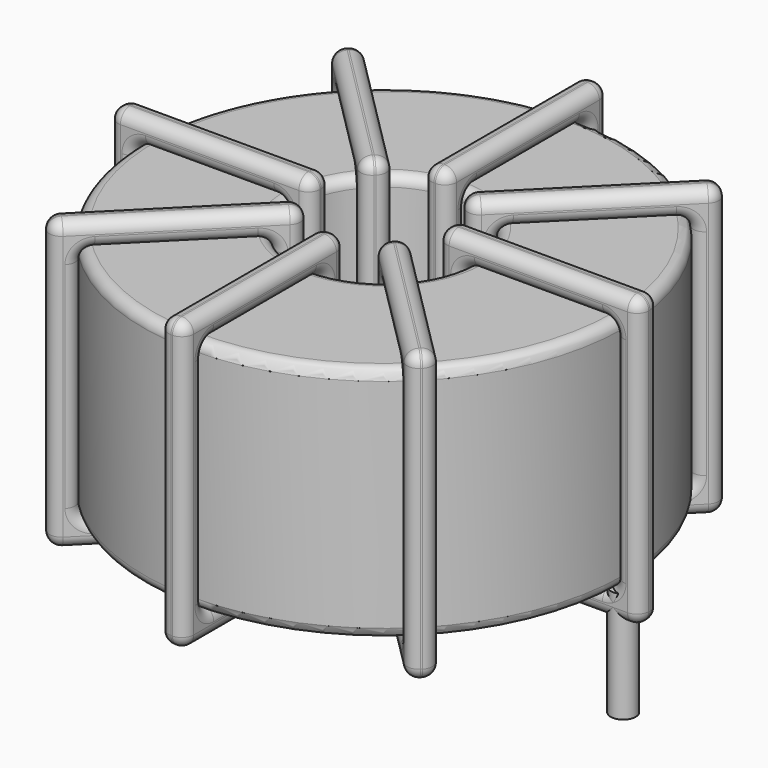
from build123d import *

# Parameters (mm, degrees)
SKETCH001_R       = 0.6
PAD001_DEPTH      = 0.6
PAD001_DEPTH_BACK = 4.7
SKETCH_R          = 11.5
SKETCH_R_2        = 4.233333
PAD_DEPTH         = 11.4
FILLET_R          = 0.5
SKETCH003_W       = 9.666667
SKETCH003_H       = 13.8
SKETCH003_W_2     = 7.266667
SKETCH003_H_2     = 11.4
PAD002_DEPTH      = 0.6
FILLET001_R       = 0.564
SKETCH004_W       = 9.666667
SKETCH004_H       = 13.8
SKETCH004_W_2     = 7.266667
SKETCH004_H_2     = 11.4
PAD003_DEPTH      = 0.6
FILLET002_R       = 0.564
SKETCH005_W       = 9.666667
SKETCH005_H       = 13.8
SKETCH005_W_2     = 7.266667
SKETCH005_H_2     = 11.4
PAD004_DEPTH      = 0.6
FILLET003_R       = 0.564
SKETCH006_W       = 9.666667
SKETCH006_H       = 13.8
SKETCH006_W_2     = 7.266667
SKETCH006_H_2     = 11.4
PAD005_DEPTH      = 0.6
FILLET004_R       = 0.564


with BuildPart() as pad001:
    # Sketch001 → Pad001 (new body, two sides)
    with BuildSketch(Plane.XY.offset(1.1)) as pad001_sk:
        Circle(SKETCH001_R)
        with Locations((22.9, 0)):
            Circle(SKETCH001_R)
    extrude(amount=PAD001_DEPTH)
    extrude(pad001_sk.sketch, amount=-PAD001_DEPTH_BACK)


with BuildPart() as fillet_body:
    # Sketch → Pad (new body)
    with BuildSketch(Plane.XY.offset(1.7)):
        with Locations((11.45, 0)):
            Circle(SKETCH_R)
        with Locations((11.45, 0)):
            Circle(SKETCH_R_2, mode=Mode.SUBTRACT)
    extrude(amount=PAD_DEPTH)

    # Fillet
    fillet_edges = [fillet_body.edges().sort_by_distance(p)[0] for p in [
        (7.216667, 0, 13.1),
        (-0.05, 0, 13.1),
        (-0.05, 0, 1.7),
    ]]
    fillet(fillet_edges, radius=FILLET_R)


with BuildPart() as fillet001:
    # Sketch003 → Pad002 (new body, symmetric)
    with BuildSketch(Plane(origin=(11.45, 0, 0), x_dir=(1, 0, 0), z_dir=(0, -1, 0))):
        with Locations((-7.866666, 7.4)):
            Rectangle(SKETCH003_W, SKETCH003_H)
        with Locations((-7.866667, 7.4)):
            Rectangle(SKETCH003_W_2, SKETCH003_H_2, mode=Mode.SUBTRACT)
        with Locations((7.866666, 7.4)):
            Rectangle(SKETCH003_W, SKETCH003_H)
        with Locations((7.866667, 7.4)):
            Rectangle(SKETCH003_W_2, SKETCH003_H_2, mode=Mode.SUBTRACT)
    extrude(amount=PAD002_DEPTH, both=True)

    # Fillet001
    fillet001_edges = [fillet001.edges().sort_by_distance(p)[0] for p in [
        (22.95, 0, 13.1),
        (22.95, 0, 1.7),
        (22.95, 0.6, 7.4),
        (22.95, -0.6, 7.4),
        (24.15, 0, 0.5),
        (14.483333, 0, 0.5),
        (19.316667, 0.6, 0.5),
        (19.316667, -0.6, 0.5),
        (14.483333, 0, 14.3),
        (14.483333, 0.6, 7.4),
        (14.483333, -0.6, 7.4),
        (-0.05, 0, 13.1),
        (7.216667, 0, 13.1),
        (3.583333, 0.6, 13.1),
        (3.583333, -0.6, 13.1),
        (7.216667, 0, 1.7),
        (7.216667, 0.6, 7.4),
        (7.216667, -0.6, 7.4),
        (8.416667, 0, 0.5),
        (-1.25, 0, 0.5),
        (3.583333, 0.6, 0.5),
        (3.583333, -0.6, 0.5),
        (-1.25, 0, 14.3),
        (-1.25, 0.6, 7.4),
        (-1.25, -0.6, 7.4),
        (15.683333, 0, 13.1),
        (19.316667, 0.6, 13.1),
        (19.316667, -0.6, 13.1),
        (-0.05, 0, 1.7),
        (-0.05, 0.6, 7.4),
        (-0.05, -0.6, 7.4),
        (3.583333, 0.6, 1.7),
        (3.583333, -0.6, 1.7),
        (8.416667, 0, 14.3),
        (3.583333, 0.6, 14.3),
        (3.583333, -0.6, 14.3),
        (8.416667, 0.6, 7.4),
        (8.416667, -0.6, 7.4),
        (24.15, 0, 14.3),
        (19.316667, 0.6, 14.3),
        (19.316667, -0.6, 14.3),
        (24.15, 0.6, 7.4),
        (24.15, -0.6, 7.4),
        (15.683333, 0, 1.7),
        (15.683333, 0.6, 7.4),
        (15.683333, -0.6, 7.4),
        (19.316667, 0.6, 1.7),
        (19.316667, -0.6, 1.7),
    ]]
    fillet(fillet001_edges, radius=FILLET001_R)


with BuildPart() as fillet002:
    # Sketch004 → Pad003 (new body, symmetric)
    with BuildSketch(Plane(origin=(11.45, 0, 0), x_dir=(0.707107, 0.707107, 0), z_dir=(0.707107, -0.707107, 0))):
        with Locations((-7.866666, 7.4)):
            Rectangle(SKETCH004_W, SKETCH004_H)
        with Locations((-7.866667, 7.4)):
            Rectangle(SKETCH004_W_2, SKETCH004_H_2, mode=Mode.SUBTRACT)
        with Locations((7.866666, 7.4)):
            Rectangle(SKETCH004_W, SKETCH004_H)
        with Locations((7.866667, 7.4)):
            Rectangle(SKETCH004_W_2, SKETCH004_H_2, mode=Mode.SUBTRACT)
    extrude(amount=PAD003_DEPTH, both=True)

    # Fillet002
    fillet002_edges = [fillet002.edges().sort_by_distance(p)[0] for p in [
        (8.456581, -2.993419, 13.1),
        (8.456581, -2.993419, 1.7),
        (8.032317, -2.569155, 7.4),
        (8.880845, -3.417683, 7.4),
        (2.469744, -8.980256, 14.3),
        (9.305109, -2.144891, 14.3),
        (5.463163, -5.138309, 14.3),
        (6.311691, -5.986837, 14.3),
        (9.305109, -2.144891, 0.5),
        (8.880845, -1.720627, 7.4),
        (9.729373, -2.569155, 7.4),
        (14.443419, 2.993419, 1.7),
        (14.443419, 2.993419, 13.1),
        (14.019155, 3.417683, 7.4),
        (14.867683, 2.569155, 7.4),
        (19.581728, 8.131728, 1.7),
        (16.588309, 5.986837, 1.7),
        (17.436837, 5.138309, 1.7),
        (13.594891, 2.144891, 14.3),
        (20.430256, 8.980256, 14.3),
        (16.588309, 5.986837, 14.3),
        (17.436837, 5.138309, 14.3),
        (20.430256, 8.980256, 0.5),
        (20.005992, 9.40452, 7.4),
        (20.85452, 8.555992, 7.4),
        (3.318272, -8.131728, 13.1),
        (5.463163, -5.138309, 13.1),
        (6.311691, -5.986837, 13.1),
        (19.581728, 8.131728, 13.1),
        (16.588309, 5.986837, 13.1),
        (17.436837, 5.138309, 13.1),
        (19.157464, 8.555992, 7.4),
        (20.005992, 7.707464, 7.4),
        (13.594891, 2.144891, 0.5),
        (16.588309, 5.986837, 0.5),
        (17.436837, 5.138309, 0.5),
        (13.170627, 2.569155, 7.4),
        (14.019155, 1.720627, 7.4),
        (2.469744, -8.980256, 0.5),
        (5.463163, -5.138309, 0.5),
        (6.311691, -5.986837, 0.5),
        (2.04548, -8.555992, 7.4),
        (2.894008, -9.40452, 7.4),
        (3.318272, -8.131728, 1.7),
        (2.894008, -7.707464, 7.4),
        (3.742536, -8.555992, 7.4),
        (5.463163, -5.138309, 1.7),
        (6.311691, -5.986837, 1.7),
    ]]
    fillet(fillet002_edges, radius=FILLET002_R)


with BuildPart() as fillet003:
    # Sketch005 → Pad004 (new body, symmetric)
    with BuildSketch(Plane(origin=(11.45, 0, 0), x_dir=(0.707107, -0.707107, 0), z_dir=(-0.707107, -0.707107, 0))):
        with Locations((-7.866666, 7.4)):
            Rectangle(SKETCH005_W, SKETCH005_H)
        with Locations((-7.866667, 7.4)):
            Rectangle(SKETCH005_W_2, SKETCH005_H_2, mode=Mode.SUBTRACT)
        with Locations((7.866666, 7.4)):
            Rectangle(SKETCH005_W, SKETCH005_H)
        with Locations((7.866667, 7.4)):
            Rectangle(SKETCH005_W_2, SKETCH005_H_2, mode=Mode.SUBTRACT)
    extrude(amount=PAD004_DEPTH, both=True)

    # Fillet003
    fillet003_edges = [fillet003.edges().sort_by_distance(p)[0] for p in [
        (19.581728, -8.131728, 13.1),
        (19.581728, -8.131728, 1.7),
        (20.005992, -7.707464, 7.4),
        (19.157464, -8.555992, 7.4),
        (20.430256, -8.980256, 0.5),
        (13.594891, -2.144891, 0.5),
        (17.436837, -5.138309, 0.5),
        (16.588309, -5.986837, 0.5),
        (13.594891, -2.144891, 14.3),
        (14.019155, -1.720627, 7.4),
        (13.170627, -2.569155, 7.4),
        (3.318272, 8.131728, 13.1),
        (8.456581, 2.993419, 13.1),
        (6.311691, 5.986837, 13.1),
        (5.463163, 5.138309, 13.1),
        (8.456581, 2.993419, 1.7),
        (8.880845, 3.417683, 7.4),
        (8.032317, 2.569155, 7.4),
        (9.305109, 2.144891, 14.3),
        (9.305109, 2.144891, 0.5),
        (9.729373, 2.569155, 7.4),
        (8.880845, 1.720627, 7.4),
        (2.469744, 8.980256, 14.3),
        (6.311691, 5.986837, 14.3),
        (5.463163, 5.138309, 14.3),
        (14.443419, -2.993419, 13.1),
        (17.436837, -5.138309, 13.1),
        (16.588309, -5.986837, 13.1),
        (3.318272, 8.131728, 1.7),
        (3.742536, 8.555992, 7.4),
        (2.894008, 7.707464, 7.4),
        (6.311691, 5.986837, 1.7),
        (5.463163, 5.138309, 1.7),
        (2.469744, 8.980256, 0.5),
        (2.894008, 9.40452, 7.4),
        (2.04548, 8.555992, 7.4),
        (6.311691, 5.986837, 0.5),
        (5.463163, 5.138309, 0.5),
        (20.430256, -8.980256, 14.3),
        (17.436837, -5.138309, 14.3),
        (16.588309, -5.986837, 14.3),
        (20.85452, -8.555992, 7.4),
        (20.005992, -9.40452, 7.4),
        (14.443419, -2.993419, 1.7),
        (14.867683, -2.569155, 7.4),
        (14.019155, -3.417683, 7.4),
        (17.436837, -5.138309, 1.7),
        (16.588309, -5.986837, 1.7),
    ]]
    fillet(fillet003_edges, radius=FILLET003_R)


with BuildPart() as fillet004:
    # Sketch006 → Pad005 (new body, symmetric)
    with BuildSketch(Plane.YZ.offset(11.45)):
        with Locations((-7.866666, 7.4)):
            Rectangle(SKETCH006_W, SKETCH006_H)
        with Locations((-7.866667, 7.4)):
            Rectangle(SKETCH006_W_2, SKETCH006_H_2, mode=Mode.SUBTRACT)
        with Locations((7.866666, 7.4)):
            Rectangle(SKETCH006_W, SKETCH006_H)
        with Locations((7.866667, 7.4)):
            Rectangle(SKETCH006_W_2, SKETCH006_H_2, mode=Mode.SUBTRACT)
    extrude(amount=PAD005_DEPTH, both=True)

    # Fillet004
    fillet004_edges = [fillet004.edges().sort_by_distance(p)[0] for p in [
        (11.45, -4.233333, 13.1),
        (11.45, -4.233333, 1.7),
        (10.85, -4.233333, 7.4),
        (12.05, -4.233333, 7.4),
        (11.45, -12.7, 14.3),
        (11.45, -3.033333, 14.3),
        (10.85, -7.866667, 14.3),
        (12.05, -7.866667, 14.3),
        (11.45, -3.033333, 0.5),
        (10.85, -3.033333, 7.4),
        (12.05, -3.033333, 7.4),
        (11.45, 4.233333, 13.1),
        (11.45, 11.5, 13.1),
        (10.85, 7.866667, 13.1),
        (12.05, 7.866667, 13.1),
        (11.45, 11.5, 1.7),
        (10.85, 11.5, 7.4),
        (12.05, 11.5, 7.4),
        (11.45, 3.033333, 14.3),
        (11.45, 12.7, 14.3),
        (10.85, 7.866667, 14.3),
        (12.05, 7.866667, 14.3),
        (11.45, 12.7, 0.5),
        (10.85, 12.7, 7.4),
        (12.05, 12.7, 7.4),
        (11.45, -11.5, 13.1),
        (10.85, -7.866667, 13.1),
        (12.05, -7.866667, 13.1),
        (11.45, 4.233333, 1.7),
        (10.85, 4.233333, 7.4),
        (12.05, 4.233333, 7.4),
        (10.85, 7.866667, 1.7),
        (12.05, 7.866667, 1.7),
        (11.45, 3.033333, 0.5),
        (10.85, 7.866667, 0.5),
        (12.05, 7.866667, 0.5),
        (10.85, 3.033333, 7.4),
        (12.05, 3.033333, 7.4),
        (11.45, -12.7, 0.5),
        (10.85, -7.866667, 0.5),
        (12.05, -7.866667, 0.5),
        (10.85, -12.7, 7.4),
        (12.05, -12.7, 7.4),
        (11.45, -11.5, 1.7),
        (10.85, -11.5, 7.4),
        (12.05, -11.5, 7.4),
        (10.85, -7.866667, 1.7),
        (12.05, -7.866667, 1.7),
    ]]
    fillet(fillet004_edges, radius=FILLET004_R)


solid = Compound([pad001.part, fillet_body.part, fillet001.part, fillet002.part, fillet003.part, fillet004.part])
